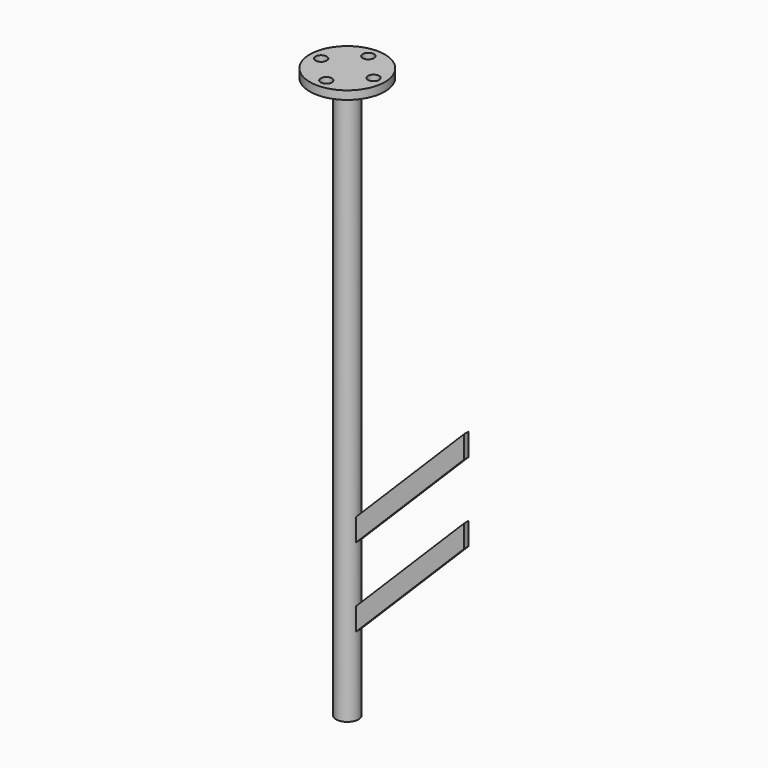
from build123d import *

# Parameters (mm, degrees)
F0_R     = 66.75
F1_DEPTH = 15
F2_R     = 20
F3_DEPTH = 1000
F5_DEPTH = 5
F6_R     = 10
F7_DEPTH = 50.8


with BuildPart() as f1:
    # F0 (on Top) → F1 (new body)
    with BuildSketch(Plane.XY):
        Circle(F0_R)
    extrude(amount=F1_DEPTH)

    # F2 (on face) → F3 (join)
    with BuildSketch(Plane(origin=(0, 0, 0), x_dir=(1, 0, 0), z_dir=(0, 0, -1))):
        Circle(F2_R)
    extrude(amount=F3_DEPTH)

    # F4 (on Front) → F5 (join, symmetric)
    with BuildSketch(Plane.XZ):
        Polygon((212.132034, -487.867966), (0, -700), (0, -740), (212.132034, -527.867966), align=None)
        Polygon((212.132034, -627.867966), (0, -840), (0, -880), (212.132034, -667.867966), align=None)
    extrude(amount=F5_DEPTH, both=True)

    # F6 (on face) → F7 (cut)
    with BuildSketch(Plane.XY.offset(15)):
        with Locations((0, -46.75)):
            Circle(F6_R)
        with Locations((46.75, 0)):
            Circle(F6_R)
        with Locations((0, 46.75)):
            Circle(F6_R)
        with Locations((-46.75, 0)):
            Circle(F6_R)
    extrude(amount=-F7_DEPTH, mode=Mode.SUBTRACT)


solid = f1.part
